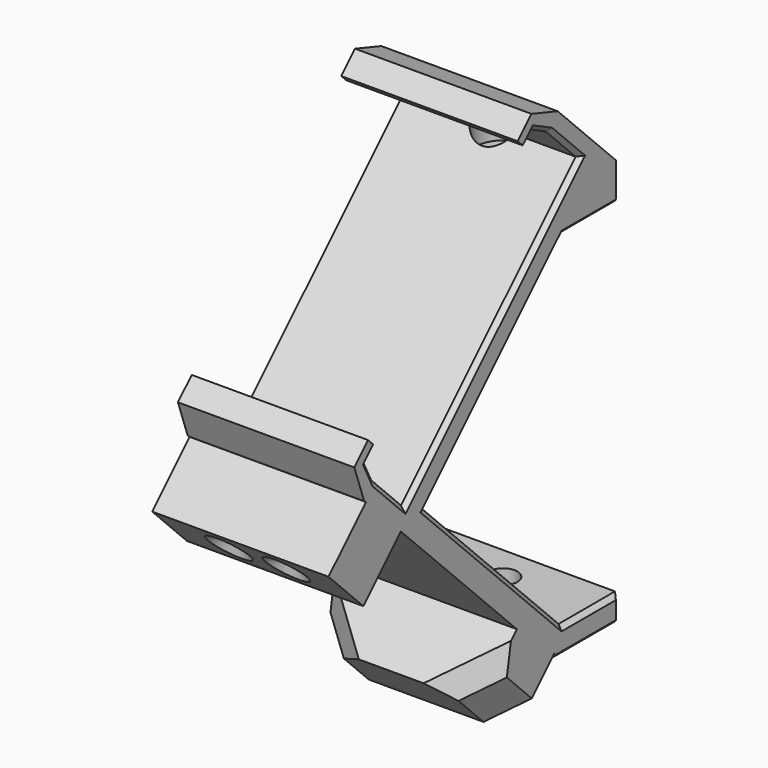
from build123d import *

# Parameters (mm, degrees)
CYLINDER003_R     = 3
CYLINDER003_DEPTH = 10
PAD008_DEPTH      = 10
SKETCH032_R       = 1.625
POCKET023_DEPTH   = 55.910244
SKETCH033_W       = 20
SKETCH033_H       = 7
PAD009_DEPTH      = 7.5
SKETCH034_R       = 1.375
POCKET024_DEPTH   = 12
CHAMFER020_1_SIZE = 3.5
CHAMFER020_2_SIZE = 1
CHAMFER021_SIZE   = 0.5
CHAMFER022_SIZE   = 2


with BuildPart() as boardbracketscrewheadcylinder:
    # Cylinder003 → Cylinder003 (new body)
    with BuildSketch(Plane(origin=(0, 0.5, 24), x_dir=(1, 0, 0), z_dir=(0, 0, 1))):
        Circle(CYLINDER003_R)
    extrude(amount=CYLINDER003_DEPTH)


with BuildPart() as boardbracketpinschamfer022_final:
    # Sketch031 → Pad008 (new body, symmetric)
    with BuildSketch(Plane.YZ):
        Polygon((4.5, 21), (4.5, 24.911688), (-4.23971, 33.651398), (-7.975533, 34.909244), (-9.918525, 32.966252), (-9.211418, 32.259145), (-8.150758, 33.319805), (-5.32233, 31.905592), (-1.07969, 27.662951), (-25.828427, 2.914214), (-30.071068, 7.156854), (-31.485281, 9.985281), (-30.424621, 11.045942), (-31.131728, 11.753048), (-33.07472, 9.810056), (-31.714777, 5.972136), (-4.742641, -21), (4.5, -21), (4.5, -18), (-3.5, -18), (-23, 1.5), (-3.5, 21), align=None)
    extrude(amount=PAD008_DEPTH, both=True)

    # Sketch032 → Pocket023 (cut, through all)
    with BuildSketch(Plane.YX.offset(21)):
        with Locations((0.5, 0)):
            Circle(SKETCH032_R)
    extrude(amount=-POCKET023_DEPTH, mode=Mode.SUBTRACT)

    # Cut001: cut BoardBracketScrewHeadCylinder
    add(boardbracketscrewheadcylinder.part, mode=Mode.SUBTRACT)

    # Sketch033 → Pad009 (new body)
    with BuildSketch(Plane(origin=(0, -12.87132, -12.87132), x_dir=(1, 0, 0), z_dir=(0, -0.707107, -0.707107))):
        with Locations((0, 22.75)):
            Rectangle(SKETCH033_W, SKETCH033_H)
        with Locations((0, -7.5)):
            Rectangle(SKETCH033_W, SKETCH033_H)
    extrude(amount=PAD009_DEPTH)

    # Sketch034 → Pocket024 (cut)
    with BuildSketch(Plane(origin=(0, -18.174621, -18.174621), x_dir=(1, 0, 0), z_dir=(0, -0.707107, -0.707107))):
        with Locations((3.25, 22.75)):
            Circle(SKETCH034_R)
    pocket024 = extrude(amount=-POCKET024_DEPTH, mode=Mode.SUBTRACT)

    # Mirrored002: Pocket024 across Sketch034 V_Axis
    add(pocket024.mirror(Plane(origin=(0, -18.174621, -18.174621), x_dir=(0, -0.707107, -0.707107), z_dir=(1, 0, 0))), mode=Mode.SUBTRACT)

    # Chamfer020 1
    chamfer020_1_edges = [boardbracketpinschamfer022_final.edges().sort_by_distance(p)[0] for p in [
        (-10, -12.87132, -23.477922),
        (10, -12.87132, -23.477922),
    ]]
    chamfer(chamfer020_1_edges, length=CHAMFER020_1_SIZE)

    # Chamfer020 2
    chamfer020_2_edges = [boardbracketpinschamfer022_final.edges().sort_by_distance(p)[0] for p in [
        (-1.875, -34.2613, -2.087942),
        (1.875, -34.2613, -2.087942),
    ]]
    chamfer(chamfer020_2_edges, length=CHAMFER020_2_SIZE)

    # Chamfer021
    chamfer021_edges = [boardbracketpinschamfer022_final.edges().sort_by_distance(p)[0] for p in [
        (10, -4.917893, -20.824747),
        (10, -0.12132, -21),
        (10, 4.5, -19.5),
        (10, 0.5, -18),
        (10, -13.25, -8.25),
        (10, -13.25, 11.25),
        (10, 0.5, 21),
        (10, 4.5, 22.955844),
        (10, -30.778175, 8.571068),
        (10, -27.949747, 5.035534),
        (10, -13.454058, 15.288582),
        (10, -3.20101, 29.784271),
        (10, -6.736544, 32.612698),
    ]]
    chamfer(chamfer021_edges, length=CHAMFER021_SIZE)

    # Chamfer022
    chamfer022_edges = [boardbracketpinschamfer022_final.edges().sort_by_distance(p)[0] for p in [
        (8.25, -14.108757, -19.765611),
        (-8.25, -14.108757, -19.765611),
    ]]
    chamfer(chamfer022_edges, length=CHAMFER022_SIZE)


solid = boardbracketpinschamfer022_final.part
